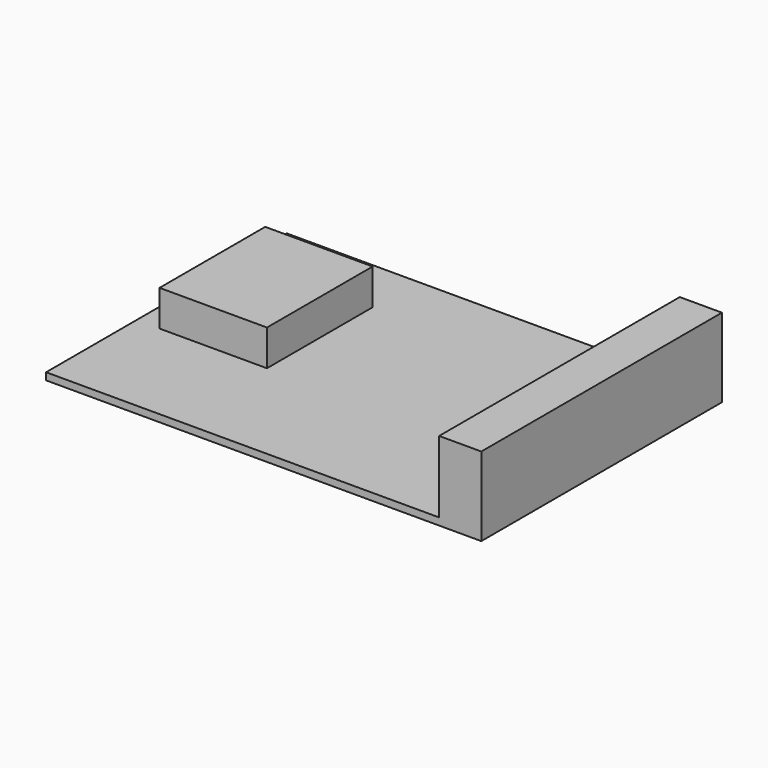
from build123d import *

# Parameters (mm, degrees)
F0_W     = 11.7570459843
F0_H     = 83.8521160185
F0_W_2   = 109.5845103264
F0_W_3   = 29.9471821636
F0_H_2   = 36.8239460513
F1_DEPTH = 2
F2_DEPTH = 10
F3_DEPTH = 20


with BuildPart() as f1:
    # F0 (on Top) → F1 (new body)
    with BuildSketch(Plane.XY):
        with Locations((58.1197217107, -1.4419015497)):
            Rectangle(F0_W, F0_H)
        with Locations((-2.5510564446, -1.4419015497)):
            Rectangle(F0_W_2, F0_H)
        with Locations((-35.9366210178, 6.5440149046)):
            Rectangle(F0_W_3, F0_H_2, mode=Mode.SUBTRACT)
        with Locations((-35.9366210178, 6.5440149046)):
            Rectangle(F0_W_3, F0_H_2)
    extrude(amount=-F1_DEPTH)

    # F0 (on Top) → F2 (join)
    with BuildSketch(Plane.XY):
        with Locations((-35.9366210178, 6.5440149046)):
            Rectangle(F0_W_3, F0_H_2)
    extrude(amount=F2_DEPTH)

    # F0 (on Top) → F3 (join)
    with BuildSketch(Plane.XY):
        with Locations((58.1197217107, -1.4419015497)):
            Rectangle(F0_W, F0_H)
    extrude(amount=F3_DEPTH)


solid = f1.part
